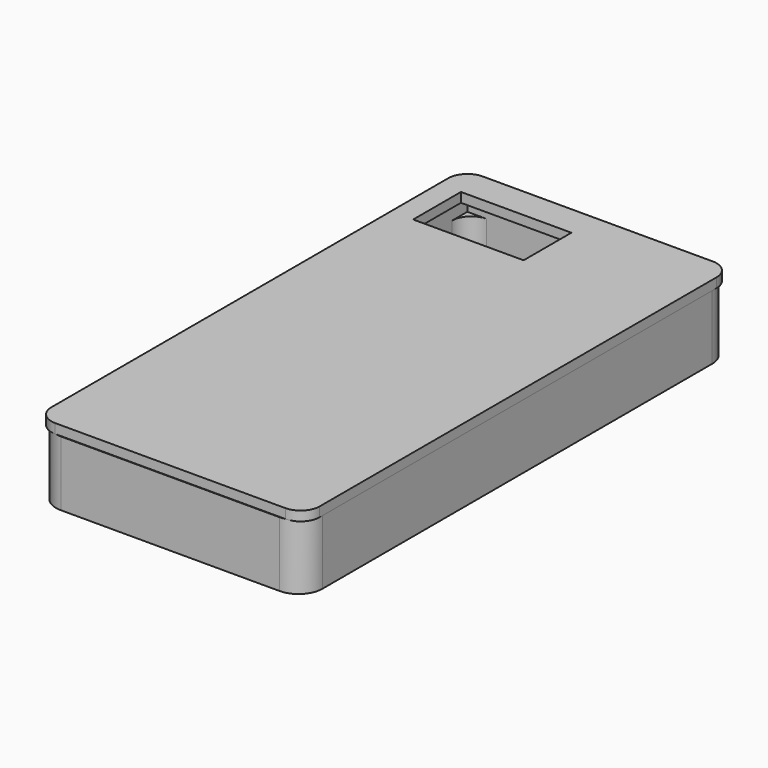
from build123d import *

# Parameters (mm, degrees)
F0_W     = 63.346878
F0_H     = 134.601146
F1_DEPTH = 12.7
F2_R     = 5.08
F3_DEPTH = 17.272
F4_W     = 71.3612
F4_H     = 142.089878
F4_W_2   = 29.3665
F4_H_2   = 15.881453
F5_DEPTH = 2.54
F6_R     = 5.08


with BuildPart() as f1:
    # F0 (on Top) → F1 (new body)
    with BuildSketch(Plane.XY):
        with BuildLine():
            Line((29.148949, 71.044939), (-28.998831, 71.044939))
            ThreePointArc((-28.998831, 71.044939), (-33.488959, 69.185067), (-35.348831, 64.694939))
            Line((-35.348831, 64.694939), (-35.348831, -64.845061))
            ThreePointArc((-35.348831, -64.845061), (-33.488959, -69.335189), (-28.998831, -71.195061))
            Line((-28.998831, -71.195061), (29.148949, -71.195061))
            ThreePointArc((29.148949, -71.195061), (33.639077, -69.335189), (35.498949, -64.845061))
            Line((35.498949, -64.845061), (35.498949, 64.694939))
            ThreePointArc((35.498949, 64.694939), (33.639077, 69.185067), (29.148949, 71.044939))
        make_face()
        Rectangle(F0_W, F0_H, mode=Mode.SUBTRACT)
    extrude(amount=F1_DEPTH)

    # F2
    f2_edges = [f1.edges().sort_by_distance(p)[0] for p in [
        (-31.673439, 67.300573, 6.35),
        (31.673439, 67.300573, 6.35),
        (31.673439, -67.300573, 6.35),
        (-31.673439, -67.300573, 6.35),
    ]]
    fillet(f2_edges, radius=F2_R)

    # F0 (on Top) → F3 (join)
    with BuildSketch(Plane.XY):
        with BuildLine():
            Line((29.148949, 71.044939), (-28.998831, 71.044939))
            ThreePointArc((-28.998831, 71.044939), (-33.488959, 69.185067), (-35.348831, 64.694939))
            Line((-35.348831, 64.694939), (-35.348831, -64.845061))
            ThreePointArc((-35.348831, -64.845061), (-33.488959, -69.335189), (-28.998831, -71.195061))
            Line((-28.998831, -71.195061), (29.148949, -71.195061))
            ThreePointArc((29.148949, -71.195061), (33.639077, -69.335189), (35.498949, -64.845061))
            Line((35.498949, -64.845061), (35.498949, 64.694939))
            ThreePointArc((35.498949, 64.694939), (33.639077, 69.185067), (29.148949, 71.044939))
        make_face()
        Rectangle(F0_W, F0_H, mode=Mode.SUBTRACT)
    extrude(amount=F3_DEPTH)

    # F4 (on face) → F5 (join)
    with BuildSketch(Plane.XY.offset(17.272)):
        Rectangle(F4_W, F4_H)
        with Locations((-15.073998, 54.834136)):
            Rectangle(F4_W_2, F4_H_2, mode=Mode.SUBTRACT)
    extrude(amount=F5_DEPTH)

    # F6
    f6_edges = [f1.edges().sort_by_distance(p)[0] for p in [
        (-35.6806, 71.044939, 18.542),
        (35.6806, 71.044939, 18.542),
        (35.6806, -71.044939, 18.542),
        (-35.6806, -71.044939, 18.542),
    ]]
    fillet(f6_edges, radius=F6_R)


solid = f1.part
